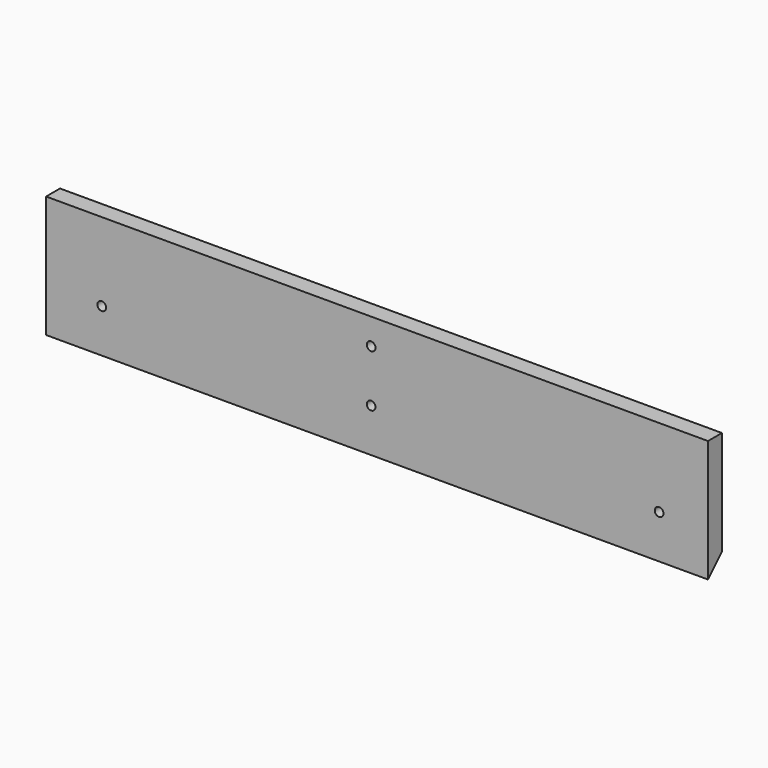
from build123d import *

# Parameters (mm, degrees)
F1_DEPTH = 482.6
F2_R     = 3.175
F3_DEPTH = 12.7


with BuildPart() as f1:
    # F0 (on Right) → F1 (new body)
    with BuildSketch(Plane.YZ):
        Polygon((5.818415, 81.95173), (-6.881585, 81.95173), (-6.881585, -6.94827), (5.818415, 5.75173), align=None)
    extrude(amount=F1_DEPTH)

    # F2 (on face) → F3 (cut)
    with BuildSketch(Plane(origin=(0, 5.818415, 0), x_dir=(-1, 0, 0), z_dir=(0, 1, 0))):
        with Locations((-40.576173, 24.80173)):
            Circle(F2_R)
        with Locations((-236.994988, 24.80173)):
            Circle(F2_R)
        with Locations((-236.994988, 62.90173)):
            Circle(F2_R)
        with Locations((-446.976173, 24.80173)):
            Circle(F2_R)
    extrude(amount=-F3_DEPTH, mode=Mode.SUBTRACT)


solid = f1.part
